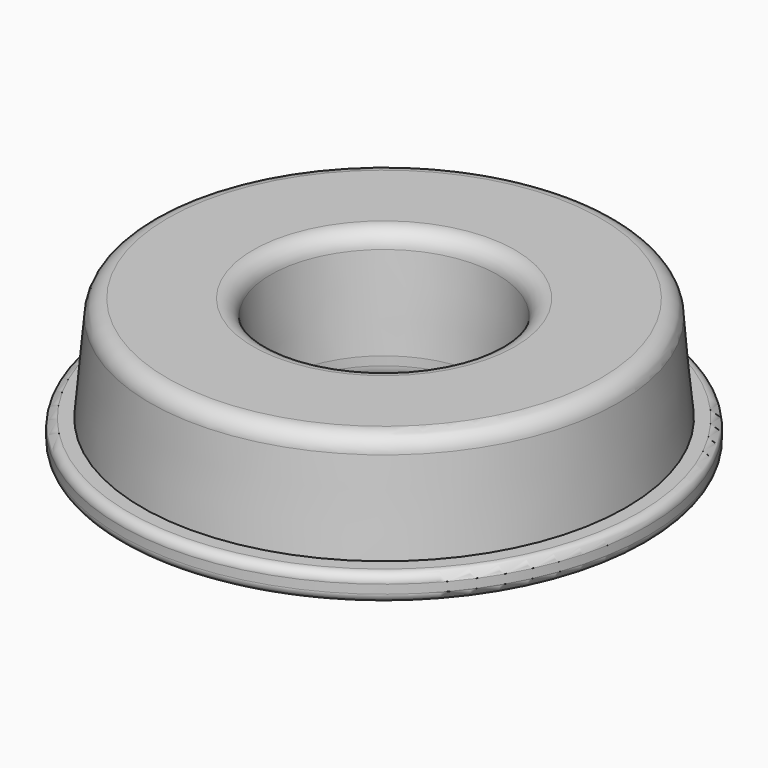
from build123d import *

# Parameters (mm, degrees)
F0_R     = 27.5
F0_R_2   = 12
F1_DEPTH = 12
F1_TAPER = 5
F2_R     = 30
F2_R_2   = 12
F3_DEPTH = 3
F4_R     = 2
F5_R     = 1


with BuildPart() as f1:
    # F0 (on Top) → F1 (new body)
    with BuildSketch(Plane.XY):
        Circle(F0_R)
        Circle(F0_R_2, mode=Mode.SUBTRACT)
    extrude(amount=F1_DEPTH, taper=F1_TAPER)

    # F2 (on Top) → F3 (join)
    with BuildSketch(Plane.XY):
        Circle(F2_R)
        Circle(F2_R_2, mode=Mode.SUBTRACT)
    extrude(amount=-F3_DEPTH)

    # F4
    f4_edges = [f1.edges().sort_by_distance(p)[0] for p in [
        (-26.450136, 0, 12),
        (-12, 0, -3),
        (-13.049864, 0, 12),
    ]]
    fillet(f4_edges, radius=F4_R)

    # F5
    f5_edges = [f1.edges().sort_by_distance(p)[0] for p in [
        (-30, 0, -3),
        (-30, 0, 0),
    ]]
    fillet(f5_edges, radius=F5_R)


solid = f1.part
